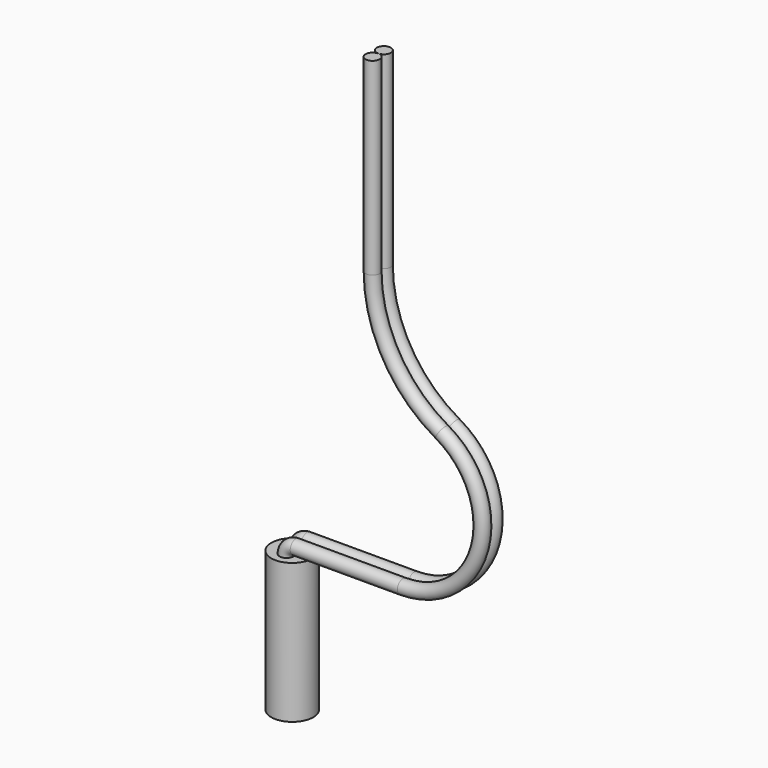
from build123d import *

# Parameters (mm, degrees)
SKETCH088_R = 1
SKETCH089_R = 1
SKETCH_R    = 3
PAD_DEPTH   = 20


with BuildPart() as body034:
    # AdditivePipe003: sweep along a path in Sketch087
    with BuildLine(Plane.XZ) as additivepipe003_path:
        ThreePointArc((0, 0), (0.3872185763, 0.9348283385), (1.3220469148, 1.3220469148))
        Line((1.3220469148, 1.3220469148), (16.6440827323, 1.3220469148))
        ThreePointArc((16.6440827323, 1.3220469148), (27.6229376089, 9.7858431574), (22.2313900406, 22.5569948697))
        ThreePointArc((22.2313900406, 22.5569948697), (14.9648212479, 29.7258516976), (12.300654883, 39.5796706434))
        Line((12.300654883, 39.5796706434), (12.300654883, 66.545398))
    # Sketch088 → AdditivePipe003 (sweep)
    with BuildSketch(Plane.XY):
        Circle(SKETCH088_R)
    sweep(path=additivepipe003_path.line, is_frenet=True)


with BuildPart() as body034_1:
    # Body033 placement: moved
    add(body034.part.moved(Location((0, 0.99, 0))))


with BuildPart() as body035:
    # AdditivePipe004: sweep along a path in Sketch090
    with BuildLine(Plane.XZ) as additivepipe004_path:
        ThreePointArc((0, 0), (0.3872185763, 0.9348283385), (1.3220469148, 1.3220469148))
        Line((1.3220469148, 1.3220469148), (16.6440827323, 1.3220469148))
        ThreePointArc((16.6440827323, 1.3220469148), (27.6229376089, 9.7858431574), (22.2313900406, 22.5569948697))
        ThreePointArc((22.2313900406, 22.5569948697), (14.9648212479, 29.7258516976), (12.300654883, 39.5796706434))
        Line((12.300654883, 39.5796706434), (12.300654883, 66.545398))
    # Sketch089 → AdditivePipe004 (sweep)
    with BuildSketch(Plane.XY):
        Circle(SKETCH089_R)
    sweep(path=additivepipe004_path.line, is_frenet=True)


with BuildPart() as body035_1:
    # Body034 placement: moved
    add(body035.part.moved(Location((0, -1.02, 0))))


with BuildPart() as body:
    # Sketch → Pad (new body)
    with BuildSketch(Plane.XY):
        Circle(SKETCH_R)
    extrude(amount=-PAD_DEPTH)

    # Boolean: union Body034, Body035
    add(body034_1.part)
    add(body035_1.part)


solid = body.part
